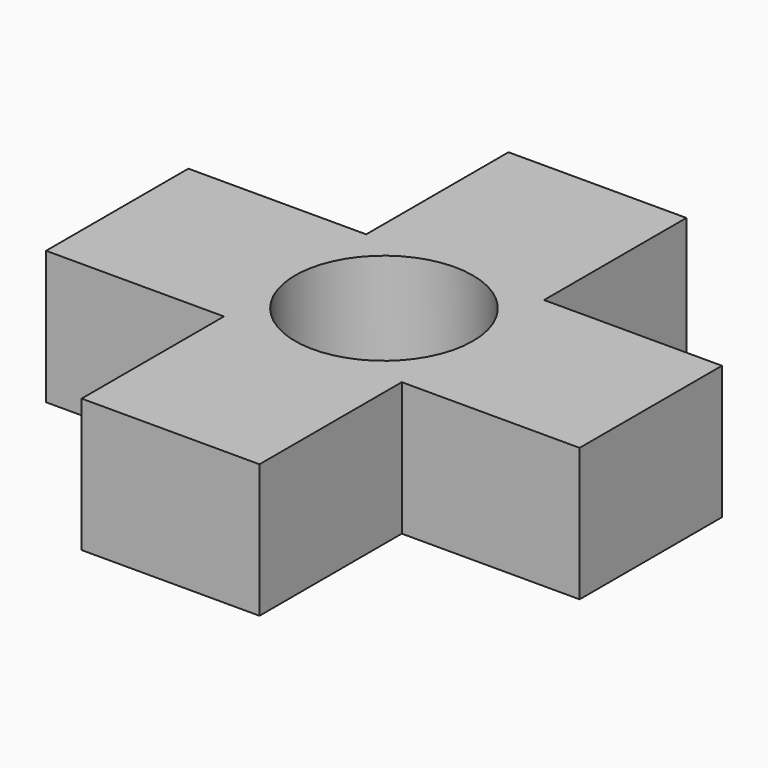
from build123d import *

# Parameters (mm, degrees)
F1_DEPTH = 15


with BuildPart() as f1:
    # F0 (on Top) → F1 (new body)
    with BuildSketch(Plane.XY):
        with BuildLine():
            ThreePointArc((-10, 0), (0, 10), (10, 0))
            Line((10, 0), (30, 0))
            Line((30, 0), (30, 10))
            Line((30, 10), (10, 10))
            Line((10, 10), (10, 30))
            Line((10, 30), (0, 30))
            Line((0, 30), (-10, 30))
            Line((-10, 30), (-10, 10))
            Line((-10, 10), (-30, 10))
            Line((-30, 10), (-30, 0))
            Line((-30, 0), (-10, 0))
        make_face()
        with BuildLine():
            Line((30, 0), (10, 0))
            ThreePointArc((10, 0), (0, -10), (-10, 0))
            Line((-10, 0), (-30, 0))
            Line((-30, 0), (-30, -10))
            Line((-30, -10), (-10, -10))
            Line((-10, -10), (-10, -30))
            Line((-10, -30), (0, -30))
            Line((0, -30), (10, -30))
            Line((10, -30), (10, -10))
            Line((10, -10), (30, -10))
            Line((30, -10), (30, 0))
        make_face()
    extrude(amount=F1_DEPTH)


solid = f1.part
